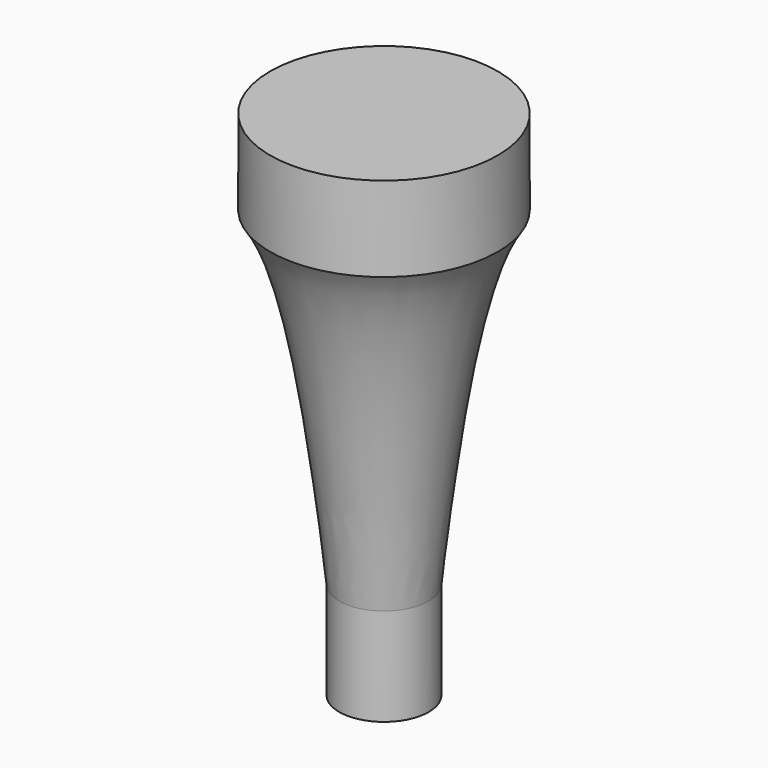
from build123d import *

# Parameters (mm, degrees)
F0_R     = 10
F1_DEPTH = 101.6
F4_R     = 38.1
F5_DEPTH = 12.7
F6_R     = 4.25
F7_DEPTH = 15
F8_R     = 38.1
F8_R_2   = 25.4
F9_DEPTH = 25.4


with BuildPart() as f1:
    # F0 (on Top) → F1 (new body)
    with BuildSketch(Plane.XY):
        Circle(F0_R)
    extrude(amount=F1_DEPTH)

    # F2 (on Front) → F3 (revolve)
    with BuildSketch(Plane.XZ):
        with BuildLine():
            Line((0, 101.6), (0, 0))
            Line((0, 0), (7.7706216834, 0))
            add(Edge.make_bspline(
                [(38.1, 101.6), (33.7451557732, 101.056594794), (17.7116021292, 99.0558994609), (11.960024104, 41.7448789118), (7.7706216834, 0)],
                knots=[0, 0, 0, 0, 0.2716081739, 1, 1, 1, 1], degree=3))
            Line((38.1, 101.6), (0, 101.6))
        make_face()
    revolve(axis=Axis((0, 0, 50.8), (0, 0, 1)))

    # F4 (on face) → F5 (join)
    with BuildSketch(Plane.XY.offset(101.6)):
        Circle(F4_R)
    extrude(amount=F5_DEPTH)

    # F6 (on face) → F7 (cut)
    with BuildSketch(Plane(origin=(0, 0, 0), x_dir=(1, 0, 0), z_dir=(0, 0, -1))):
        Circle(F6_R)
    extrude(amount=-F7_DEPTH, mode=Mode.SUBTRACT)

    # F8 (on face) → F9 (cut)
    with BuildSketch(Plane.XY.offset(114.3)):
        Circle(F8_R)
        Circle(F8_R_2, mode=Mode.SUBTRACT)
    extrude(amount=-F9_DEPTH, mode=Mode.SUBTRACT)


solid = f1.part
